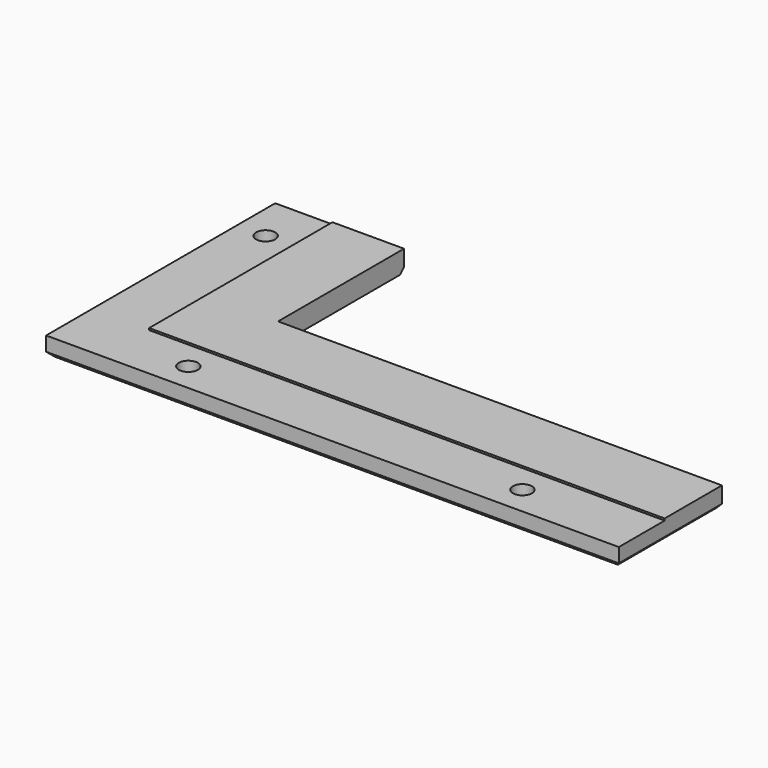
from build123d import *

# Parameters (mm, degrees)
F0_R     = 2
F1_DEPTH = 4
F3_DEPTH = 0.4
F4_SIZE  = 1


with BuildPart() as f1:
    # F0 (on Top) → F1 (new body)
    with BuildSketch(Plane.XY):
        Polygon((12, 12), (120, 12), (120, 27), (27, 27), (27, 60), (12, 60), align=None)
        Polygon((0, 60), (0, 0), (120, 0), (120, 12), (12, 12), (12, 60), align=None)
        with Locations((25, 6)):
            Circle(F0_R, mode=Mode.SUBTRACT)
        with Locations((95, 6)):
            Circle(F0_R, mode=Mode.SUBTRACT)
        with Locations((6, 50)):
            Circle(F0_R, mode=Mode.SUBTRACT)
    extrude(amount=F1_DEPTH)

    # F2 (on face) → F3 (join)
    with BuildSketch(Plane.XY.offset(4)):
        Polygon((27, 60), (12, 60), (12, 12), (120, 12), (120, 27), (27, 27), align=None)
    extrude(amount=F3_DEPTH)

    # F4
    f4_edges = [f1.edges().sort_by_distance(p)[0] for p in [
        (120, 13.5, 0),
        (13.5, 60, 0),
        (60, 0, 0),
        (0, 30, 0),
    ]]
    chamfer(f4_edges, length=F4_SIZE)


solid = f1.part
